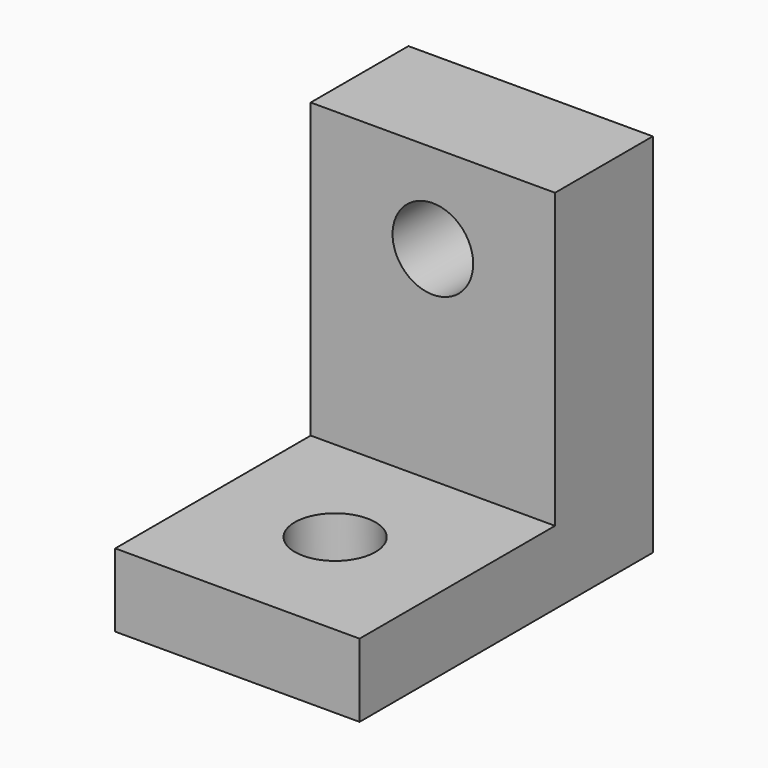
from build123d import *

# Parameters (mm, degrees)
F0_W     = 25.4
F0_H     = 30.48
F0_R     = 4.191
F1_DEPTH = 12.7
F0_H_2   = 7.62
F2_DEPTH = 38.1
F4_D     = 8.382
F4_DEPTH = 12.7


with BuildPart() as f1:
    # F0 (on Front) → F1 (new body)
    with BuildSketch(Plane.XZ):
        with Locations((0, 3.81)):
            Rectangle(F0_W, F0_H)
        with Locations((0, 9.779)):
            Circle(F0_R, mode=Mode.SUBTRACT)
    extrude(amount=F1_DEPTH)

    # F0 (on Front) → F2 (join)
    with BuildSketch(Plane.XZ):
        with Locations((0, -15.24)):
            Rectangle(F0_W, F0_H_2)
    extrude(amount=F2_DEPTH)

    # F4
    with Locations(Plane.XY.offset(-11.43)):
        with Locations((0, -25.4)):
            Hole(F4_D / 2, depth=F4_DEPTH)


solid = f1.part
